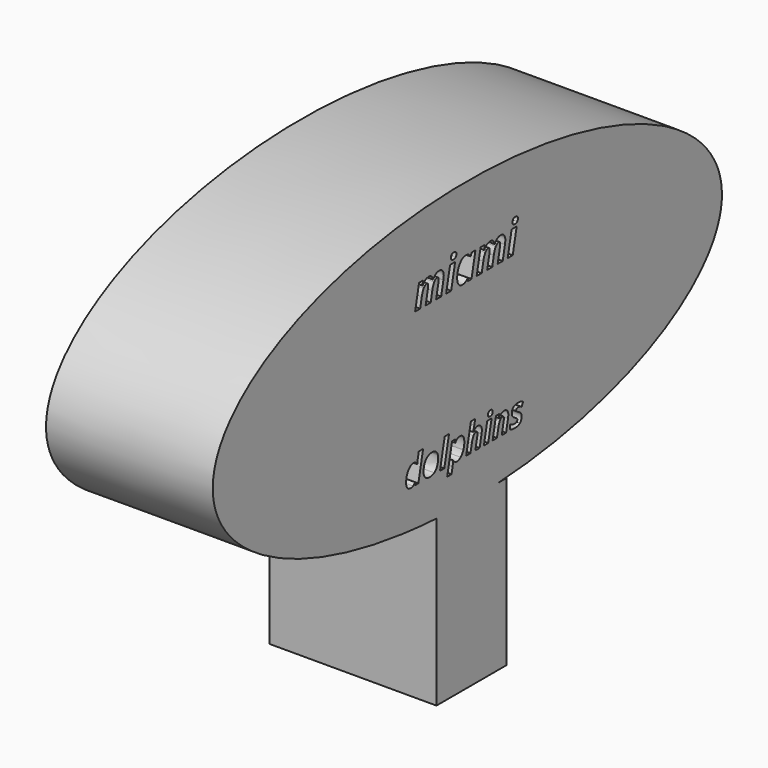
from build123d import *

# Parameters (mm, degrees)
F1_DEPTH = 40.132


with BuildPart() as f1:
    # F0 (on Right) → F1 (new body)
    with BuildSketch(Plane.YZ):
        with BuildLine():
            Line((52.6881590486, 0), (76.6013291213, 0))
            add(Edge.make_bspline(
                [(76.6013291213, 0), (76.6013291213, 33.9971533287), (0, 33.9971533287), (-76.6013291213, 33.9971533287), (-76.6013291213, 0)],
                knots=[0, 0, 0, 1.5707963268, 1.5707963268, 3.1415926536, 3.1415926536, 3.1415926536], degree=2, weights=[1, 0.7071067812, 1, 0.7071067812, 1]))
            Line((-76.6013291213, 0), (-51.8314354122, 0))
            Line((-51.8314354122, 0), (-44.9456877633, 0))
            Line((-44.9456877633, 0), (-36.1249389825, 0))
            Line((-36.1249389825, 0), (-31.8413488567, 0))
            Line((-31.8413488567, 0), (-26.701040566, 0))
            Line((-26.701040566, 0), (-22.1318807453, 0))
            Line((-22.1318807453, 0), (-17.848290503, 0))
            Line((-17.848290503, 0), (-13.5647002608, 0))
            Line((-13.5647002608, 0), (-5.568664521, 0))
            Line((-5.568664521, 0), (2.7129433583, 0))
            Line((2.7129433583, 0), (9.8522575572, 0))
            Line((9.8522575572, 0), (15.5637133867, 0))
            Line((15.5637133867, 0), (23.8453261554, 0))
            Line((23.8453261554, 0), (30.6990630925, 0))
            Line((30.6990630925, 0), (35.8393751085, 0))
            Line((35.8393751085, 0), (43.2642661035, 0))
            Line((43.2642661035, 0), (48.975713551, 0))
            Line((48.975713551, 0), (52.6881590486, 0))
        make_face()
        with BuildLine():
            add(Edge.make_bspline(
                [(-13.4423050069, 17.2953684332), (-12.7075503071, 18.4426169996), (-11.6537573823, 18.4426169996)],
                knots=[0, 0, 0, 1, 1, 1], degree=2))
            add(Edge.make_bspline(
                [(-11.6537573823, 18.4426169996), (-10.5516253326, 18.4426169996), (-10.3357105744, 17.2953684332)],
                knots=[0, 0, 0, 1, 1, 1], degree=2))
            Line((-10.3357105744, 17.2953684332), (-10.3050957952, 17.2953684332))
            add(Edge.make_bspline(
                [(-10.3050957952, 17.2953684332), (-9.9618880078, 17.8496570664), (-9.4962211037, 18.146137033)],
                knots=[0, 0, 0, 1, 1, 1], degree=2))
            add(Edge.make_bspline(
                [(-9.4962211037, 18.146137033), (-9.0305541997, 18.4426169996), (-8.5020464332, 18.4426169996)],
                knots=[0, 0, 0, 1, 1, 1], degree=2))
            add(Edge.make_bspline(
                [(-8.5020464332, 18.4426169996), (-7.8172421625, 18.4426169996), (-7.4571156814, 18.0148157435)],
                knots=[0, 0, 0, 1, 1, 1], degree=2))
            add(Edge.make_bspline(
                [(-7.4571156814, 18.0148157435), (-7.0969892002, 17.5870144873), (-7.0969892002, 16.8216450083)],
                knots=[0, 0, 0, 1, 1, 1], degree=2))
            add(Edge.make_bspline(
                [(-7.0969892002, 16.8216450083), (-7.0969892002, 16.4397659209), (-7.2130031002, 15.9160920669)],
                knots=[0, 0, 0, 1, 1, 1], degree=2))
            Line((-7.2130031002, 15.9160920669), (-7.8833056333, 12.7079854719))
            Line((-7.8833056333, 12.7079854719), (-9.3979315496, 12.7079854719))
            Line((-9.3979315496, 12.7079854719), (-8.703459454, 15.9966572752))
            add(Edge.make_bspline(
                [(-8.703459454, 15.9966572752), (-8.6228942456, 16.3382537585), (-8.6228942456, 16.5960624251)],
                knots=[0, 0, 0, 1, 1, 1], degree=2))
            add(Edge.make_bspline(
                [(-8.6228942456, 16.5960624251), (-8.6228942456, 17.2148032249), (-9.1159533205, 17.2148032249)],
                knots=[0, 0, 0, 1, 1, 1], degree=2))
            add(Edge.make_bspline(
                [(-9.1159533205, 17.2148032249), (-9.5800089204, 17.2148032249), (-9.9554427911, 16.6508467667)],
                knots=[0, 0, 0, 1, 1, 1], degree=2))
            add(Edge.make_bspline(
                [(-9.9554427911, 16.6508467667), (-10.3308766619, 16.0868903085), (-10.5516253326, 15.0492104255)],
                knots=[0, 0, 0, 1, 1, 1], degree=2))
            Line((-10.5516253326, 15.0492104255), (-11.0350165825, 12.7079854719))
            Line((-11.0350165825, 12.7079854719), (-12.5512538029, 12.7079854719))
            Line((-12.5512538029, 12.7079854719), (-11.8616156198, 15.9966572752))
            add(Edge.make_bspline(
                [(-11.8616156198, 15.9966572752), (-11.7810504115, 16.3382537585), (-11.7810504115, 16.5960624251)],
                knots=[0, 0, 0, 1, 1, 1], degree=2))
            add(Edge.make_bspline(
                [(-11.7810504115, 16.5960624251), (-11.7810504115, 17.2148032249), (-12.2741094863, 17.2148032249)],
                knots=[0, 0, 0, 1, 1, 1], degree=2))
            add(Edge.make_bspline(
                [(-12.2741094863, 17.2148032249), (-12.7365537821, 17.2148032249), (-13.114404609, 16.6403732896)],
                knots=[0, 0, 0, 1, 1, 1], degree=2))
            add(Edge.make_bspline(
                [(-13.114404609, 16.6403732896), (-13.492255436, 16.0659433544), (-13.7081701943, 15.0395426005)],
                knots=[0, 0, 0, 1, 1, 1], degree=2))
            Line((-13.7081701943, 15.0395426005), (-14.2028405733, 12.7079854719))
            Line((-14.2028405733, 12.7079854719), (-15.7174664896, 12.7079854719))
            Line((-15.7174664896, 12.7079854719), (-14.5251014066, 18.3378822288))
            Line((-14.5251014066, 18.3378822288), (-13.3665737111, 18.3378822288))
            Line((-13.3665737111, 18.3378822288), (-13.472919786, 17.2953684332))
            Line((-13.472919786, 17.2953684332), (-13.4423050069, 17.2953684332))
        make_face(mode=Mode.SUBTRACT)
        Polygon((-3.6778017594, 18.3378822288), (-4.8717781466, 12.7079854719), (-6.3864040629, 12.7079854719), (-5.1940389799, 18.3378822288), align=None, mode=Mode.SUBTRACT)
        with BuildLine():
            add(Edge.make_bspline(
                [(0.1393778104, 13.4379062592), (-0.5357586353, 12.6064733095), (-1.4670924434, 12.6064733095)],
                knots=[0, 0, 0, 1, 1, 1], degree=2))
            add(Edge.make_bspline(
                [(-1.4670924434, 12.6064733095), (-2.2082923598, 12.6064733095), (-2.6336766597, 13.1430375968)],
                knots=[0, 0, 0, 1, 1, 1], degree=2))
            add(Edge.make_bspline(
                [(-2.6336766597, 13.1430375968), (-3.0590609596, 13.6796018842), (-3.0590609596, 14.6463843839)],
                knots=[0, 0, 0, 1, 1, 1], degree=2))
            add(Edge.make_bspline(
                [(-3.0590609596, 14.6463843839), (-3.0590609596, 15.6437816628), (-2.6965175222, 16.5477233001)],
                knots=[0, 0, 0, 1, 1, 1], degree=2))
            add(Edge.make_bspline(
                [(-2.6965175222, 16.5477233001), (-2.3339740848, 17.4516649373), (-1.74423676, 17.9471409685)],
                knots=[0, 0, 0, 1, 1, 1], degree=2))
            add(Edge.make_bspline(
                [(-1.74423676, 17.9471409685), (-1.1544994351, 18.4426169996), (-0.4503595145, 18.4426169996)],
                knots=[0, 0, 0, 1, 1, 1], degree=2))
            add(Edge.make_bspline(
                [(-0.4503595145, 18.4426169996), (0.0378656479, 18.4426169996), (0.3931582166, 18.2315361538)],
                knots=[0, 0, 0, 1, 1, 1], degree=2))
            add(Edge.make_bspline(
                [(0.3931582166, 18.2315361538), (0.7484507852, 18.020455308), (0.9450298935, 17.6176292665)],
                knots=[0, 0, 0, 1, 1, 1], degree=2))
            Line((0.9450298935, 17.6176292665), (0.9853124977, 17.6176292665))
            Line((0.9853124977, 17.6176292665), (1.2721246392, 18.3378822288))
            Line((1.2721246392, 18.3378822288), (2.4403201598, 18.3378822288))
            Line((2.4403201598, 18.3378822288), (1.2415098601, 12.7079854719))
            Line((1.2415098601, 12.7079854719), (0.0878160771, 12.7079854719))
            Line((0.0878160771, 12.7079854719), (0.1587134604, 13.4379062592))
            Line((0.1587134604, 13.4379062592), (0.1393778104, 13.4379062592))
        make_face(mode=Mode.SUBTRACT)
        with BuildLine():
            add(Edge.make_bspline(
                [(-4.1918077885, 19.0371882369), (-4.9523433549, 19.0371882369), (-4.9523433549, 19.6575403409)],
                knots=[0, 0, 0, 1, 1, 1], degree=2))
            add(Edge.make_bspline(
                [(-4.9523433549, 19.6575403409), (-4.9523433549, 20.09420377), (-4.7130646863, 20.3189807012)],
                knots=[0, 0, 0, 1, 1, 1], degree=2))
            add(Edge.make_bspline(
                [(-4.7130646863, 20.3189807012), (-4.4737860176, 20.5437576324), (-4.0355112844, 20.5437576324)],
                knots=[0, 0, 0, 1, 1, 1], degree=2))
            add(Edge.make_bspline(
                [(-4.0355112844, 20.5437576324), (-3.6681339344, 20.5437576324), (-3.4763887387, 20.3874611282)],
                knots=[0, 0, 0, 1, 1, 1], degree=2))
            add(Edge.make_bspline(
                [(-3.4763887387, 20.3874611282), (-3.2846435429, 20.2311646241), (-3.2846435429, 19.93951857)],
                knots=[0, 0, 0, 1, 1, 1], degree=2))
            add(Edge.make_bspline(
                [(-3.2846435429, 19.93951857), (-3.2846435429, 19.5366925285), (-3.5061978657, 19.2869403827)],
                knots=[0, 0, 0, 1, 1, 1], degree=2))
            add(Edge.make_bspline(
                [(-3.5061978657, 19.2869403827), (-3.7277521886, 19.0371882369), (-4.1918077885, 19.0371882369)],
                knots=[0, 0, 0, 1, 1, 1], degree=2))
        make_face(mode=Mode.SUBTRACT)
        with BuildLine():
            add(Edge.make_bspline(
                [(5.0780250799, 17.2953684332), (5.8127797797, 18.4426169996), (6.8665727044, 18.4426169996)],
                knots=[0, 0, 0, 1, 1, 1], degree=2))
            add(Edge.make_bspline(
                [(6.8665727044, 18.4426169996), (7.9687047541, 18.4426169996), (8.1846195124, 17.2953684332)],
                knots=[0, 0, 0, 1, 1, 1], degree=2))
            Line((8.1846195124, 17.2953684332), (8.2152342916, 17.2953684332))
            add(Edge.make_bspline(
                [(8.2152342916, 17.2953684332), (8.558442079, 17.8496570664), (9.024108983, 18.146137033)],
                knots=[0, 0, 0, 1, 1, 1], degree=2))
            add(Edge.make_bspline(
                [(9.024108983, 18.146137033), (9.4897758871, 18.4426169996), (10.0182836536, 18.4426169996)],
                knots=[0, 0, 0, 1, 1, 1], degree=2))
            add(Edge.make_bspline(
                [(10.0182836536, 18.4426169996), (10.7030879243, 18.4426169996), (11.0632144054, 18.0148157435)],
                knots=[0, 0, 0, 1, 1, 1], degree=2))
            add(Edge.make_bspline(
                [(11.0632144054, 18.0148157435), (11.4233408866, 17.5870144873), (11.4233408866, 16.8216450083)],
                knots=[0, 0, 0, 1, 1, 1], degree=2))
            add(Edge.make_bspline(
                [(11.4233408866, 16.8216450083), (11.4233408866, 16.4397659209), (11.3073269866, 15.9160920669)],
                knots=[0, 0, 0, 1, 1, 1], degree=2))
            Line((11.3073269866, 15.9160920669), (10.6370244534, 12.7079854719))
            Line((10.6370244534, 12.7079854719), (9.1223985372, 12.7079854719))
            Line((9.1223985372, 12.7079854719), (9.8168706328, 15.9966572752))
            add(Edge.make_bspline(
                [(9.8168706328, 15.9966572752), (9.8974358411, 16.3382537585), (9.8974358411, 16.5960624251)],
                knots=[0, 0, 0, 1, 1, 1], degree=2))
            add(Edge.make_bspline(
                [(9.8974358411, 16.5960624251), (9.8974358411, 17.2148032249), (9.4043767663, 17.2148032249)],
                knots=[0, 0, 0, 1, 1, 1], degree=2))
            add(Edge.make_bspline(
                [(9.4043767663, 17.2148032249), (8.9403211664, 17.2148032249), (8.5648872957, 16.6508467667)],
                knots=[0, 0, 0, 1, 1, 1], degree=2))
            add(Edge.make_bspline(
                [(8.5648872957, 16.6508467667), (8.1894534249, 16.0868903085), (7.9687047541, 15.0492104255)],
                knots=[0, 0, 0, 1, 1, 1], degree=2))
            Line((7.9687047541, 15.0492104255), (7.4853135043, 12.7079854719))
            Line((7.4853135043, 12.7079854719), (5.9690762838, 12.7079854719))
            Line((5.9690762838, 12.7079854719), (6.658714467, 15.9966572752))
            add(Edge.make_bspline(
                [(6.658714467, 15.9966572752), (6.7392796753, 16.3382537585), (6.7392796753, 16.5960624251)],
                knots=[0, 0, 0, 1, 1, 1], degree=2))
            add(Edge.make_bspline(
                [(6.7392796753, 16.5960624251), (6.7392796753, 17.2148032249), (6.2462206004, 17.2148032249)],
                knots=[0, 0, 0, 1, 1, 1], degree=2))
            add(Edge.make_bspline(
                [(6.2462206004, 17.2148032249), (5.7837763047, 17.2148032249), (5.4059254777, 16.6403732896)],
                knots=[0, 0, 0, 1, 1, 1], degree=2))
            add(Edge.make_bspline(
                [(5.4059254777, 16.6403732896), (5.0280746508, 16.0659433544), (4.8121598925, 15.0395426005)],
                knots=[0, 0, 0, 1, 1, 1], degree=2))
            Line((4.8121598925, 15.0395426005), (4.3174895134, 12.7079854719))
            Line((4.3174895134, 12.7079854719), (2.8028635972, 12.7079854719))
            Line((2.8028635972, 12.7079854719), (3.9952286802, 18.3378822288))
            Line((3.9952286802, 18.3378822288), (5.1537563757, 18.3378822288))
            Line((5.1537563757, 18.3378822288), (5.0474103008, 17.2953684332))
            Line((5.0474103008, 17.2953684332), (5.0780250799, 17.2953684332))
        make_face(mode=Mode.SUBTRACT)
        Polygon((14.8425283273, 18.3378822288), (13.6485519402, 12.7079854719), (12.1339260239, 12.7079854719), (13.3262911069, 18.3378822288), align=None, mode=Mode.SUBTRACT)
        with BuildLine():
            add(Edge.make_bspline(
                [(14.3285222983, 19.0371882369), (13.5679867318, 19.0371882369), (13.5679867318, 19.6575403409)],
                knots=[0, 0, 0, 1, 1, 1], degree=2))
            add(Edge.make_bspline(
                [(13.5679867318, 19.6575403409), (13.5679867318, 20.09420377), (13.8072654005, 20.3189807012)],
                knots=[0, 0, 0, 1, 1, 1], degree=2))
            add(Edge.make_bspline(
                [(13.8072654005, 20.3189807012), (14.0465440692, 20.5437576324), (14.4848188024, 20.5437576324)],
                knots=[0, 0, 0, 1, 1, 1], degree=2))
            add(Edge.make_bspline(
                [(14.4848188024, 20.5437576324), (14.8521961523, 20.5437576324), (15.0439413481, 20.3874611282)],
                knots=[0, 0, 0, 1, 1, 1], degree=2))
            add(Edge.make_bspline(
                [(15.0439413481, 20.3874611282), (15.2356865439, 20.2311646241), (15.2356865439, 19.93951857)],
                knots=[0, 0, 0, 1, 1, 1], degree=2))
            add(Edge.make_bspline(
                [(15.2356865439, 19.93951857), (15.2356865439, 19.5366925285), (15.014132221, 19.2869403827)],
                knots=[0, 0, 0, 1, 1, 1], degree=2))
            add(Edge.make_bspline(
                [(15.014132221, 19.2869403827), (14.7925778982, 19.0371882369), (14.3285222983, 19.0371882369)],
                knots=[0, 0, 0, 1, 1, 1], degree=2))
        make_face(mode=Mode.SUBTRACT)
        with BuildLine():
            add(Edge.make_bspline(
                [(9.2910485253, -33.7461522606), (76.6013291213, -30.0958034545), (76.6013291213, 0)],
                knots=[4.833979319, 4.833979319, 4.833979319, 6.2831853072, 6.2831853072, 6.2831853072], degree=2, weights=[1, 0.7487626317, 1]))
            Line((76.6013291213, 0), (52.6881590486, 0))
            Line((52.6881590486, 0), (48.975713551, 0))
            Line((48.975713551, 0), (43.2642661035, 0))
            Line((43.2642661035, 0), (35.8393751085, 0))
            Line((35.8393751085, 0), (30.6990630925, 0))
            Line((30.6990630925, 0), (23.8453261554, 0))
            Line((23.8453261554, 0), (15.5637133867, 0))
            Line((15.5637133867, 0), (9.8522575572, 0))
            Line((9.8522575572, 0), (2.7129433583, 0))
            Line((2.7129433583, 0), (-5.568664521, 0))
            Line((-5.568664521, 0), (-13.5647002608, 0))
            Line((-13.5647002608, 0), (-17.848290503, 0))
            Line((-17.848290503, 0), (-22.1318807453, 0))
            Line((-22.1318807453, 0), (-26.701040566, 0))
            Line((-26.701040566, 0), (-31.8413488567, 0))
            Line((-31.8413488567, 0), (-36.1249389825, 0))
            Line((-36.1249389825, 0), (-44.9456877633, 0))
            Line((-44.9456877633, 0), (-51.8314354122, 0))
            Line((-51.8314354122, 0), (-76.6013291213, 0))
            add(Edge.make_bspline(
                [(-76.6013291213, 0), (-76.6013291213, -30.0958034545), (-9.2910485253, -33.7461522606)],
                knots=[3.1415926536, 3.1415926536, 3.1415926536, 4.5907986418, 4.5907986418, 4.5907986418], degree=2, weights=[1, 0.7487626317, 1]))
            Line((-9.2910485253, -33.7461522606), (9.2910485253, -33.7461522606))
        make_face()
        with BuildLine():
            add(Edge.make_bspline(
                [(-16.3227586651, -24.0065924192), (-16.65734592, -24.1749208526), (-17.0574708845, -24.1749208526)],
                knots=[0, 0, 0, 1, 1, 1], degree=2))
            add(Edge.make_bspline(
                [(-17.0574708845, -24.1749208526), (-17.6921518628, -24.1749208526), (-18.0564035547, -23.7133974021)],
                knots=[0, 0, 0, 1, 1, 1], degree=2))
            add(Edge.make_bspline(
                [(-18.0564035547, -23.7133974021), (-18.4206552466, -23.2518739516), (-18.4206552466, -22.4198899735)],
                knots=[0, 0, 0, 1, 1, 1], degree=2))
            add(Edge.make_bspline(
                [(-18.4206552466, -22.4198899735), (-18.4206552466, -21.5741085829), (-18.1122830756, -20.8042129614)],
                knots=[0, 0, 0, 1, 1, 1], degree=2))
            add(Edge.make_bspline(
                [(-18.1122830756, -20.8042129614), (-17.8039109047, -20.0343173399), (-17.2996154752, -19.6059076796)],
                knots=[0, 0, 0, 1, 1, 1], degree=2))
            add(Edge.make_bspline(
                [(-17.2996154752, -19.6059076796), (-16.7953200457, -19.1774980192), (-16.1868541513, -19.1774980192)],
                knots=[0, 0, 0, 1, 1, 1], degree=2))
            add(Edge.make_bspline(
                [(-16.1868541513, -19.1774980192), (-15.8336403894, -19.1774980192), (-15.5770085156, -19.3368581344)],
                knots=[0, 0, 0, 1, 1, 1], degree=2))
            add(Edge.make_bspline(
                [(-15.5770085156, -19.3368581344), (-15.3203766418, -19.4962182496), (-15.0913395931, -19.8839255429)],
                knots=[0, 0, 0, 1, 1, 1], degree=2))
            Line((-15.0913395931, -19.8839255429), (-15.0568460617, -19.8839255429))
            Line((-15.0568460617, -19.8839255429), (-15.0485676141, -19.7638880535))
            add(Edge.make_bspline(
                [(-15.0485676141, -19.7638880535), (-15.0223525302, -19.289257061), (-14.9409477961, -18.9222458866)],
                knots=[0, 0, 0, 1, 1, 1], degree=2))
            Line((-14.9409477961, -18.9222458866), (-14.6125693769, -17.3783154199))
            Line((-14.6125693769, -17.3783154199), (-13.3156125952, -17.3783154199))
            Line((-13.3156125952, -17.3783154199), (-14.7381258313, -24.0879971534))
            Line((-14.7381258313, -24.0879971534), (-15.7260205714, -24.0879971534))
            Line((-15.7260205714, -24.0879971534), (-15.6653119561, -23.4629743639))
            Line((-15.6653119561, -23.4629743639), (-15.6818688512, -23.4629743639))
            add(Edge.make_bspline(
                [(-15.6818688512, -23.4629743639), (-15.9881714102, -23.8382639859), (-16.3227586651, -24.0065924192)],
                knots=[0, 0, 0, 1, 1, 1], degree=2))
        make_face(mode=Mode.SUBTRACT)
        with BuildLine():
            add(Edge.make_bspline(
                [(-9.2750403236, -19.6859326725), (-8.7831625654, -20.1943673257), (-8.7831625654, -21.0870599191)],
                knots=[0, 0, 0, 1, 1, 1], degree=2))
            add(Edge.make_bspline(
                [(-8.7831625654, -21.0870599191), (-8.7831625654, -21.9963094076), (-9.0873955126, -22.6992875781)],
                knots=[0, 0, 0, 1, 1, 1], degree=2))
            add(Edge.make_bspline(
                [(-9.0873955126, -22.6992875781), (-9.3916284598, -23.4022657486), (-9.9649109522, -23.7885933006)],
                knots=[0, 0, 0, 1, 1, 1], degree=2))
            add(Edge.make_bspline(
                [(-9.9649109522, -23.7885933006), (-10.5381934445, -24.1749208526), (-11.3274054436, -24.1749208526)],
                knots=[0, 0, 0, 1, 1, 1], degree=2))
            add(Edge.make_bspline(
                [(-11.3274054436, -24.1749208526), (-12.1690476105, -24.1749208526), (-12.6712734281, -23.6678659406)],
                knots=[0, 0, 0, 1, 1, 1], degree=2))
            add(Edge.make_bspline(
                [(-12.6712734281, -23.6678659406), (-13.1734992457, -23.1608110286), (-13.1734992457, -22.320548603)],
                knots=[0, 0, 0, 1, 1, 1], degree=2))
            add(Edge.make_bspline(
                [(-13.1734992457, -22.320548603), (-13.1734992457, -21.4016409257), (-12.8651270747, -20.6834856014)],
                knots=[0, 0, 0, 1, 1, 1], degree=2))
            add(Edge.make_bspline(
                [(-12.8651270747, -20.6834856014), (-12.5567549037, -19.965330277), (-11.9745040932, -19.5714141481)],
                knots=[0, 0, 0, 1, 1, 1], degree=2))
            add(Edge.make_bspline(
                [(-11.9745040932, -19.5714141481), (-11.3922532827, -19.1774980192), (-10.6113197311, -19.1774980192)],
                knots=[0, 0, 0, 1, 1, 1], degree=2))
            add(Edge.make_bspline(
                [(-10.6113197311, -19.1774980192), (-9.7669180818, -19.1774980192), (-9.2750403236, -19.6859326725)],
                knots=[0, 0, 0, 1, 1, 1], degree=2))
        make_face(mode=Mode.SUBTRACT)
        Polygon((-5.5145555272, -17.3783154199), (-6.9384485046, -24.0879971534), (-8.2354052863, -24.0879971534), (-6.8128920502, -17.3783154199), align=None, mode=Mode.SUBTRACT)
        with BuildLine():
            add(Edge.make_bspline(
                [(-3.635347935, -19.9998238085), (-3.0406794532, -19.1774980192), (-2.2680243492, -19.1774980192)],
                knots=[0, 0, 0, 1, 1, 1], degree=2))
            add(Edge.make_bspline(
                [(-2.2680243492, -19.1774980192), (-1.6388623359, -19.1774980192), (-1.274610644, -19.640401211)],
                knots=[0, 0, 0, 1, 1, 1], degree=2))
            add(Edge.make_bspline(
                [(-1.274610644, -19.640401211), (-0.9103589521, -20.1033044028), (-0.9103589521, -20.9366681221)],
                knots=[0, 0, 0, 1, 1, 1], degree=2))
            add(Edge.make_bspline(
                [(-0.9103589521, -20.9366681221), (-0.9103589521, -21.7589939113), (-1.2056235812, -22.5206110853)],
                knots=[0, 0, 0, 1, 1, 1], degree=2))
            add(Edge.make_bspline(
                [(-1.2056235812, -22.5206110853), (-1.5008882102, -23.2822282592), (-2.0141519579, -23.7285745559)],
                knots=[0, 0, 0, 1, 1, 1], degree=2))
            add(Edge.make_bspline(
                [(-2.0141519579, -23.7285745559), (-2.5274157055, -24.1749208526), (-3.1441600475, -24.1749208526)],
                knots=[0, 0, 0, 1, 1, 1], degree=2))
            add(Edge.make_bspline(
                [(-3.1441600475, -24.1749208526), (-3.5015130331, -24.1749208526), (-3.7602145188, -24.0148708668)],
                knots=[0, 0, 0, 1, 1, 1], degree=2))
            add(Edge.make_bspline(
                [(-3.7602145188, -24.0148708668), (-4.0189160045, -23.8548208809), (-4.2382948644, -23.4712528115)],
                knots=[0, 0, 0, 1, 1, 1], degree=2))
            Line((-4.2382948644, -23.4712528115), (-4.2727883958, -23.4712528115))
            add(Edge.make_bspline(
                [(-4.2727883958, -23.4712528115), (-4.3252185636, -24.1569842163), (-4.4590534655, -24.7433742505)],
                knots=[0, 0, 0, 1, 1, 1], degree=2))
            Line((-4.4590534655, -24.7433742505), (-4.7694952484, -26.2100392069))
            Line((-4.7694952484, -26.2100392069), (-6.0678317714, -26.2100392069))
            Line((-6.0678317714, -26.2100392069), (-4.5928883675, -19.2671812009))
            Line((-4.5928883675, -19.2671812009), (-3.6008544036, -19.2671812009))
            Line((-3.6008544036, -19.2671812009), (-3.6739806902, -19.9998238085))
            Line((-3.6739806902, -19.9998238085), (-3.635347935, -19.9998238085))
        make_face(mode=Mode.SUBTRACT)
        with BuildLine():
            Line((4.2678099859, -21.3409323104), (3.693837623, -24.0879971534))
            Line((3.693837623, -24.0879971534), (2.3968808412, -24.0879971534))
            Line((2.3968808412, -24.0879971534), (2.9874100993, -21.2719452476))
            add(Edge.make_bspline(
                [(2.9874100993, -21.2719452476), (3.0563971622, -20.979440101), (3.0563971622, -20.7586814999)],
                knots=[0, 0, 0, 1, 1, 1], degree=2))
            add(Edge.make_bspline(
                [(3.0563971622, -20.7586814999), (3.0563971622, -20.2288608572), (2.5900446172, -20.2288608572)],
                knots=[0, 0, 0, 1, 1, 1], degree=2))
            add(Edge.make_bspline(
                [(2.5900446172, -20.2288608572), (2.1940588764, -20.2288608572), (1.8705095516, -20.7207386153)],
                knots=[0, 0, 0, 1, 1, 1], degree=2))
            add(Edge.make_bspline(
                [(1.8705095516, -20.7207386153), (1.5469602268, -21.2126163735), (1.3620748984, -22.0915115543)],
                knots=[0, 0, 0, 1, 1, 1], degree=2))
            Line((1.3620748984, -22.0915115543), (0.9384943324, -24.0879971534))
            Line((0.9384943324, -24.0879971534), (-0.3584624493, -24.0879971534))
            Line((-0.3584624493, -24.0879971534), (1.0640507868, -17.3783154199))
            Line((1.0640507868, -17.3783154199), (2.3623873098, -17.3783154199))
            add(Edge.make_bspline(
                [(2.3623873098, -17.3783154199), (2.1940588764, -18.1592489714), (2.1029959535, -18.5773105724)],
                knots=[0, 0, 0, 1, 1, 1], degree=2))
            add(Edge.make_bspline(
                [(2.1029959535, -18.5773105724), (2.0119330305, -18.9953721733), (1.7318455553, -19.9101406268)],
                knots=[0, 0, 0, 1, 1, 1], degree=2))
            Line((1.7318455553, -19.9101406268), (1.7663390867, -19.9101406268))
            add(Edge.make_bspline(
                [(1.7663390867, -19.9101406268), (2.0340088906, -19.5776229838), (2.3616974392, -19.3775605015)],
                knots=[0, 0, 0, 1, 1, 1], degree=2))
            add(Edge.make_bspline(
                [(2.3616974392, -19.3775605015), (2.6893859878, -19.1774980192), (3.1212450012, -19.1774980192)],
                knots=[0, 0, 0, 1, 1, 1], degree=2))
            add(Edge.make_bspline(
                [(3.1212450012, -19.1774980192), (3.7159134831, -19.1774980192), (4.0415324198, -19.5369206167)],
                knots=[0, 0, 0, 1, 1, 1], degree=2))
            add(Edge.make_bspline(
                [(4.0415324198, -19.5369206167), (4.3671513564, -19.8963432142), (4.3671513564, -20.5655177239)],
                knots=[0, 0, 0, 1, 1, 1], degree=2))
            add(Edge.make_bspline(
                [(4.3671513564, -20.5655177239), (4.3671513564, -20.8800987305), (4.2678099859, -21.3409323104)],
                knots=[0, 0, 0, 1, 1, 1], degree=2))
        make_face(mode=Mode.SUBTRACT)
        Polygon((7.2949623041, -19.2671812009), (6.2725740326, -24.0879971534), (4.9756172508, -24.0879971534), (5.9966257811, -19.2671812009), align=None, mode=Mode.SUBTRACT)
        with BuildLine():
            Line((12.2233980746, -21.3409323104), (11.6494257117, -24.0879971534))
            Line((11.6494257117, -24.0879971534), (10.3524689299, -24.0879971534))
            Line((10.3524689299, -24.0879971534), (10.942998188, -21.2719452476))
            add(Edge.make_bspline(
                [(10.942998188, -21.2719452476), (11.0119852509, -20.979440101), (11.0119852509, -20.7586814999)],
                knots=[0, 0, 0, 1, 1, 1], degree=2))
            add(Edge.make_bspline(
                [(11.0119852509, -20.7586814999), (11.0119852509, -20.2288608572), (10.5456327059, -20.2288608572)],
                knots=[0, 0, 0, 1, 1, 1], degree=2))
            add(Edge.make_bspline(
                [(10.5456327059, -20.2288608572), (10.1496469651, -20.2288608572), (9.8260976403, -20.7207386153)],
                knots=[0, 0, 0, 1, 1, 1], degree=2))
            add(Edge.make_bspline(
                [(9.8260976403, -20.7207386153), (9.5025483155, -21.2126163735), (9.3176629871, -22.0915115543)],
                knots=[0, 0, 0, 1, 1, 1], degree=2))
            Line((9.3176629871, -22.0915115543), (8.8940824211, -24.0879971534))
            Line((8.8940824211, -24.0879971534), (7.5971256394, -24.0879971534))
            Line((7.5971256394, -24.0879971534), (8.6181341697, -19.2671812009))
            Line((8.6181341697, -19.2671812009), (9.6101681336, -19.2671812009))
            Line((9.6101681336, -19.2671812009), (9.5191052106, -20.1598737943))
            Line((9.5191052106, -20.1598737943), (9.5453202945, -20.1598737943))
            add(Edge.make_bspline(
                [(9.5453202945, -20.1598737943), (10.1744823078, -19.1774980192), (11.0768330899, -19.1774980192)],
                knots=[0, 0, 0, 1, 1, 1], degree=2))
            add(Edge.make_bspline(
                [(11.0768330899, -19.1774980192), (11.6715015718, -19.1774980192), (11.9971205085, -19.5369206167)],
                knots=[0, 0, 0, 1, 1, 1], degree=2))
            add(Edge.make_bspline(
                [(11.9971205085, -19.5369206167), (12.3227394452, -19.8963432142), (12.3227394452, -20.5655177239)],
                knots=[0, 0, 0, 1, 1, 1], degree=2))
            add(Edge.make_bspline(
                [(12.3227394452, -20.5655177239), (12.3227394452, -20.8800987305), (12.2233980746, -21.3409323104)],
                knots=[0, 0, 0, 1, 1, 1], degree=2))
        make_face(mode=Mode.SUBTRACT)
        with BuildLine():
            add(Edge.make_bspline(
                [(16.1087494548, -21.7638230057), (16.346064951, -22.0832331068), (16.346064951, -22.4971554839)],
                knots=[0, 0, 0, 1, 1, 1], degree=2))
            add(Edge.make_bspline(
                [(16.346064951, -22.4971554839), (16.346064951, -23.3070636019), (15.809345602, -23.7409922272)],
                knots=[0, 0, 0, 1, 1, 1], degree=2))
            add(Edge.make_bspline(
                [(15.809345602, -23.7409922272), (15.2726262529, -24.1749208526), (14.3150858205, -24.1749208526)],
                knots=[0, 0, 0, 1, 1, 1], degree=2))
            add(Edge.make_bspline(
                [(14.3150858205, -24.1749208526), (13.8528724993, -24.1749208526), (13.5106966676, -24.1100730135)],
                knots=[0, 0, 0, 1, 1, 1], degree=2))
            add(Edge.make_bspline(
                [(13.5106966676, -24.1100730135), (13.1685208358, -24.0452251744), (12.8704967242, -23.8934536361)],
                knots=[0, 0, 0, 1, 1, 1], degree=2))
            Line((12.8704967242, -23.8934536361), (12.8704967242, -22.8241541619))
            add(Edge.make_bspline(
                [(12.8704967242, -22.8241541619), (13.5479496815, -23.2132411964), (14.2460987576, -23.2132411964)],
                knots=[0, 0, 0, 1, 1, 1], degree=2))
            add(Edge.make_bspline(
                [(14.2460987576, -23.2132411964), (14.5910340719, -23.2132411964), (14.8111028024, -23.0725075881)],
                knots=[0, 0, 0, 1, 1, 1], degree=2))
            add(Edge.make_bspline(
                [(14.8111028024, -23.0725075881), (15.0311715329, -22.9317739799), (15.0311715329, -22.6903192599)],
                knots=[0, 0, 0, 1, 1, 1], degree=2))
            add(Edge.make_bspline(
                [(15.0311715329, -22.6903192599), (15.0311715329, -22.5054339315), (14.8711215471, -22.3591813582)],
                knots=[0, 0, 0, 1, 1, 1], degree=2))
            add(Edge.make_bspline(
                [(14.8711215471, -22.3591813582), (14.7110715613, -22.2129287849), (14.3068073729, -21.98803096)],
                knots=[0, 0, 0, 1, 1, 1], degree=2))
            add(Edge.make_bspline(
                [(14.3068073729, -21.98803096), (13.7838854365, -21.6955258135), (13.5769242479, -21.4044004083)],
                knots=[0, 0, 0, 1, 1, 1], degree=2))
            add(Edge.make_bspline(
                [(13.5769242479, -21.4044004083), (13.3699630593, -21.113275003), (13.3699630593, -20.7159095209)],
                knots=[0, 0, 0, 1, 1, 1], degree=2))
            add(Edge.make_bspline(
                [(13.3699630593, -20.7159095209), (13.3699630593, -19.9832669134), (13.8466636637, -19.5803824663)],
                knots=[0, 0, 0, 1, 1, 1], degree=2))
            add(Edge.make_bspline(
                [(13.8466636637, -19.5803824663), (14.323364268, -19.1774980192), (15.2077784138, -19.1774980192)],
                knots=[0, 0, 0, 1, 1, 1], degree=2))
            add(Edge.make_bspline(
                [(15.2077784138, -19.1774980192), (16.0742559233, -19.1774980192), (16.7724049995, -19.5859014313)],
                knots=[0, 0, 0, 1, 1, 1], degree=2))
            Line((16.7724049995, -19.5859014313), (16.346064951, -20.5130875561))
            add(Edge.make_bspline(
                [(16.346064951, -20.5130875561), (15.7417382804, -20.1515953468), (15.2326137565, -20.1515953468)],
                knots=[0, 0, 0, 1, 1, 1], degree=2))
            add(Edge.make_bspline(
                [(15.2326137565, -20.1515953468), (14.9870198127, -20.1515953468), (14.8366280157, -20.2612847767)],
                knots=[0, 0, 0, 1, 1, 1], degree=2))
            add(Edge.make_bspline(
                [(14.8366280157, -20.2612847767), (14.6862362186, -20.3709742066), (14.6862362186, -20.5572392764)],
                knots=[0, 0, 0, 1, 1, 1], degree=2))
            add(Edge.make_bspline(
                [(14.6862362186, -20.5572392764), (14.6862362186, -20.7241879685), (14.8242103444, -20.8518140348)],
                knots=[0, 0, 0, 1, 1, 1], degree=2))
            add(Edge.make_bspline(
                [(14.8242103444, -20.8518140348), (14.9621844701, -20.979440101), (15.3416133158, -21.172603877)],
                knots=[0, 0, 0, 1, 1, 1], degree=2))
            add(Edge.make_bspline(
                [(15.3416133158, -21.172603877), (15.8714339585, -21.4444129047), (16.1087494548, -21.7638230057)],
                knots=[0, 0, 0, 1, 1, 1], degree=2))
        make_face(mode=Mode.SUBTRACT)
        with BuildLine():
            add(Edge.make_bspline(
                [(6.8548248431, -18.6683734953), (6.2035869697, -18.6683734953), (6.2035869697, -18.1371731113)],
                knots=[0, 0, 0, 1, 1, 1], degree=2))
            add(Edge.make_bspline(
                [(6.2035869697, -18.1371731113), (6.2035869697, -17.7632632306), (6.4084785464, -17.5707893253)],
                knots=[0, 0, 0, 1, 1, 1], degree=2))
            add(Edge.make_bspline(
                [(6.4084785464, -17.5707893253), (6.6133701231, -17.3783154199), (6.988659745, -17.3783154199)],
                knots=[0, 0, 0, 1, 1, 1], degree=2))
            add(Edge.make_bspline(
                [(6.988659745, -17.3783154199), (7.3032407517, -17.3783154199), (7.4674299613, -17.5121503218)],
                knots=[0, 0, 0, 1, 1, 1], degree=2))
            add(Edge.make_bspline(
                [(7.4674299613, -17.5121503218), (7.6316191709, -17.6459852238), (7.6316191709, -17.8957183913)],
                knots=[0, 0, 0, 1, 1, 1], degree=2))
            add(Edge.make_bspline(
                [(7.6316191709, -17.8957183913), (7.6316191709, -18.2406537056), (7.441904748, -18.4545136005)],
                knots=[0, 0, 0, 1, 1, 1], degree=2))
            add(Edge.make_bspline(
                [(7.441904748, -18.4545136005), (7.2521903251, -18.6683734953), (6.8548248431, -18.6683734953)],
                knots=[0, 0, 0, 1, 1, 1], degree=2))
        make_face(mode=Mode.SUBTRACT)
        with BuildLine():
            Line((11.8430715669, -33.7461522606), (9.2910485253, -33.7461522606))
            add(Edge.make_bspline(
                [(-9.2910485253, -33.7461522606), (0, -34.2500213218), (9.2910485253, -33.7461522606)],
                knots=[4.5907986418, 4.5907986418, 4.5907986418, 4.833979319, 4.833979319, 4.833979319], degree=2, weights=[1, 0.9926169975, 1]))
            Line((-9.2910485253, -33.7461522606), (-9.2910485253, -73.4005447366))
            Line((-9.2910485253, -73.4005447366), (11.8430715669, -73.4005447366))
            Line((11.8430715669, -73.4005447366), (11.8430715669, -33.7461522606))
        make_face()
        with BuildLine():
            add(Edge.make_bspline(
                [(-9.2910485253, -33.7461522606), (0, -34.2500213218), (9.2910485253, -33.7461522606)],
                knots=[4.5907986418, 4.5907986418, 4.5907986418, 4.833979319, 4.833979319, 4.833979319], degree=2, weights=[1, 0.9926169975, 1]))
            Line((9.2910485253, -33.7461522606), (-9.2910485253, -33.7461522606))
        make_face()
    extrude(amount=F1_DEPTH)


solid = f1.part
